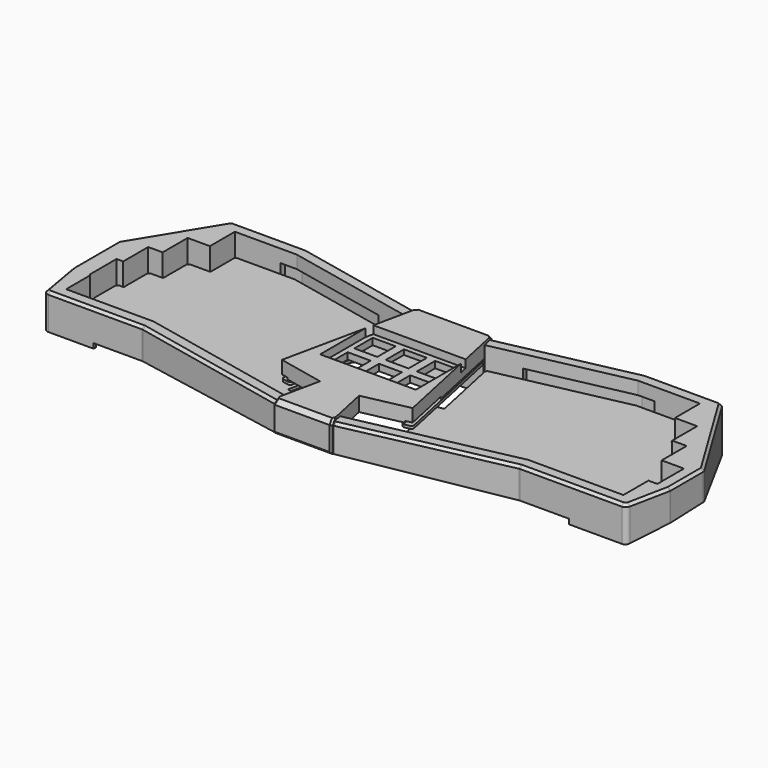
from build123d import *

# Parameters (mm, degrees)
PAD_DEPTH       = 1.6
FILLET_R        = 1.5
FILLET001_R     = 0.8
PAD001_DEPTH    = 40
POCKET_DEPTH    = 400
POCKET001_DEPTH = 50
POCKET001_TAPER = 70
POCKET002_DEPTH = 50
POCKET002_TAPER = 70
POCKET003_DEPTH = 3
POCKET005_DEPTH = 16.8
POCKET007_DEPTH = 22
POCKET012_DEPTH = 59
PAD006_DEPTH    = 3.5
PAD007_DEPTH    = 3.5
SKETCH026_W     = 15
SKETCH026_H     = 4
PAD008_DEPTH    = 3.5
SKETCH027_W     = 15
SKETCH027_H     = 4
PAD009_DEPTH    = 3.5
FILLET003_R     = 8
FILLET004_R     = 3
CHAMFER_SIZE    = 1.6
POCKET019_DEPTH = 200
SKETCH038_R     = 2
POCKET025_DEPTH = 6.7
PAD015_DEPTH    = 3.5
PAD016_DEPTH    = 3.5
POCKET035_DEPTH = 115
PAD010_DEPTH    = 1.6
FILLET002_R     = 1.5
FILLET006_R     = 7
PAD011_DEPTH    = 28.4
POCKET017_DEPTH = 50
POCKET018_DEPTH = 19.6
POCKET020_DEPTH = 26
POCKET021_DEPTH = 16
POCKET022_DEPTH = 19
POCKET023_DEPTH = 25
POCKET024_DEPTH = 1
CHAMFER001_SIZE = 2.6
CHAMFER002_SIZE = 1.2
SKETCH045_R     = 4.5
SKETCH045_R_2   = 2
PAD013_DEPTH    = 5.6
SKETCH046_R     = 2
POCKET030_DEPTH = 6.7
SKETCH047_R     = 2
POCKET031_DEPTH = 5.7
POCKET032_DEPTH = 13
CHAMFER003_SIZE = 1
SKETCH054_R     = 3.6
SKETCH054_R_2   = 2
PAD014_DEPTH    = 1
SKETCH055_W     = 19
SKETCH055_H     = 36
POCKET033_DEPTH = 1
PAD017_DEPTH    = 8
PAD018_DEPTH    = 8
FILLET005_R     = 1
SKETCH074_W     = 14
SKETCH074_H     = 14
POCKET036_DEPTH = 36
SKETCH073_W     = 58.35
SKETCH073_H     = 39.3
POCKET037_DEPTH = 14


with BuildPart() as pcb:
    # Sketch001 → Pad (new body)
    with BuildSketch(Plane.XY):
        with BuildLine():
            Line((-25.6569009013, 76.7143133761), (-104.1862885277, 93.40625))
            Line((-104.1862885277, 93.40625), (-140.3865264554, 93.40625))
            Line((-140.3865264554, 93.40625), (-140.3865264554, 74.35625))
            Line((-140.3865264554, 74.35625), (-153.9607289552, 74.35625))
            Line((-153.9607289552, 74.35625), (-153.9607289552, 55.30625))
            Line((-153.9607289552, 55.30625), (-162.772431455, 55.30625))
            Line((-162.772431455, 55.30625), (-162.772431455, 36.25625))
            Line((-162.772431455, 36.25625), (-166.8216339549, 36.25625))
            Line((-166.8216339549, 36.25625), (-166.8216339549, 18.7896622428))
            Line((-166.8216339549, 18.7896622428), (-166.1083364547, 18.0000001221))
            Line((-166.1083364547, 18.0000001221), (-166.1083364547, -0.25625))
            Line((-166.1083364547, -0.25625), (-114.0306139632, -0.25625))
            Line((-114.0306139632, -0.25625), (-33.0319665059, -17.4730440034))
            ThreePointArc((-33.0319665059, -17.4730440034), (0, -21.0075427473), (33.0319665059, -17.4730440034))
            Line((114.0306139632, -0.25625), (33.0319665059, -17.4730440034))
            Line((114.0306139632, -0.25625), (170.8708364547, -0.25625))
            Line((170.8708364547, -0.25625), (170.8708364547, 18.79375))
            Line((170.8708364547, 18.79375), (176.3466339549, 18.79375))
            Line((176.3466339549, 18.79375), (176.3466339549, 36.25625))
            Line((176.3466339549, 36.25625), (162.772431455, 36.25625))
            Line((162.772431455, 36.25625), (162.772431455, 55.30625))
            Line((162.772431455, 55.30625), (153.9607289552, 55.30625))
            Line((153.9607289552, 55.30625), (153.9607289552, 74.35625))
            Line((153.9607289552, 74.35625), (140.3865264554, 74.35625))
            Line((140.3865264554, 74.35625), (140.3865264554, 93.40625))
            Line((140.3865264554, 93.40625), (104.1862885277, 93.40625))
            Line((104.1862885277, 93.40625), (25.6569009013, 76.7143133761))
            Line((34.7896818101, 33.7479573294), (25.6569009013, 76.7143133761))
            Line((29.5137981886, 32.626533647), (34.7896818101, 33.7479573294))
            Line((35.8509465247, 2.8125947766), (29.5137981886, 32.626533647))
            ThreePointArc((-35.8509465247, 2.8125947766), (0, -2.07), (35.8509465247, 2.8125947766))
            Line((-35.8509465247, 2.8125947766), (-29.5137981886, 32.626533647))
            Line((-29.5137981886, 32.626533647), (-34.7896818101, 33.7479573294))
            Line((-34.7896818101, 33.7479573294), (-25.6569009013, 76.7143133761))
        make_face()
    extrude(amount=PAD_DEPTH)

    # Fillet
    fillet_edges = [pcb.edges().sort_by_distance(p)[0] for p in [
        (-166.108336, -0.25625, 0.8),
        (-166.821634, 36.25625, 0.8),
        (-162.772431, 55.30625, 0.8),
        (-153.960729, 74.35625, 0.8),
        (-140.386526, 93.40625, 0.8),
        (-25.656901, 76.714313, 0.8),
        (25.656901, 76.714313, 0.8),
        (140.386526, 93.40625, 0.8),
        (153.960729, 74.35625, 0.8),
        (162.772431, 55.30625, 0.8),
        (176.346634, 36.25625, 0.8),
        (176.346634, 18.79375, 0.8),
        (170.870836, -0.25625, 0.8),
        (-114.030614, -0.25625, 0.8),
        (114.030614, -0.25625, 0.8),
        (-104.186289, 93.40625, 0.8),
        (104.186289, 93.40625, 0.8),
    ]]
    fillet(fillet_edges, radius=FILLET_R)

    # Fillet001
    fillet001_edges = [pcb.edges().sort_by_distance(p)[0] for p in [
        (-34.789682, 33.747957, 0.8),
        (-29.513798, 32.626534, 0.8),
        (-35.850947, 2.812595, 0.8),
        (-140.386526, 74.35625, 0.8),
        (-153.960729, 55.30625, 0.8),
        (-162.772431, 36.25625, 0.8),
        (-166.108336, 18, 0.8),
        (-166.821634, 18.789662, 0.8),
        (35.850947, 2.812595, 0.8),
        (29.513798, 32.626534, 0.8),
        (34.789682, 33.747957, 0.8),
        (140.386526, 74.35625, 0.8),
        (153.960729, 55.30625, 0.8),
        (162.772431, 36.25625, 0.8),
        (170.870836, 18.79375, 0.8),
    ]]
    fillet(fillet001_edges, radius=FILLET001_R)


with BuildPart() as pcb_1:
    # Body001 placement: moved
    add(pcb.part.moved(Location((0, 0, 5.4))))


with BuildPart() as body002:
    # Sketch002 → Pad001 (new body)
    with BuildSketch(Plane.XY.offset(-20.2)):
        Polygon((-149.4960240693, 102.2), (-179.6153839549, 52.8352871714), (-179.6153839549, 18), (-174.9020864547, -9.05), (-114.9548743321, -9.05), (-18.2317807246, -29.6091282113), (18.2317807246, -29.6091282113), (114.9548743321, -9.05), (179.6645864547, -9.05), (185.1403839549, 18), (185.1403839549, 43.7799805707), (149.4960240693, 102.2), (103.2620281588, 102.2), (23.0521728121, 85.1508689355), (-23.0521728121, 85.1508689355), (-103.2620281588, 102.2), align=None)
    extrude(amount=PAD001_DEPTH)

    # Sketch004 → Pocket (cut)
    with BuildSketch(Plane.YZ.offset(200)):
        Polygon((-29.6091282113, 0), (427.5929638991, -40), (-34.6091282113, -40), (-34.6091282113, 0), align=None)
    extrude(amount=-POCKET_DEPTH, mode=Mode.SUBTRACT)

    # Sketch005 (on Face2 of Pocket) → Pocket001 (cut)
    with BuildSketch(Plane(origin=(0, -0.2249145944, -2.5707855781), x_dir=(1, 0, 0), z_dir=(0, -0.0871557427, -0.9961946981))):
        Polygon((179.664586, 8.858796), (139.4960240693, -102.8161611286), (-829.867004, -717.988555), (0, -4000), (8000, 0), (0, 4000), (-701.29071, 993.332806), align=None)
    extrude(amount=-POCKET001_DEPTH, taper=POCKET001_TAPER, mode=Mode.SUBTRACT)

    # Sketch006 (on Face2 of Pocket001) → Pocket002 (cut)
    with BuildSketch(Plane(origin=(0, -0.2249145944, -2.5707855781), x_dir=(1, 0, 0), z_dir=(0, -0.0871557427, -0.9961946981))):
        Polygon((-174.9020864547, 8.8587957981), (-139.4960240693, -102.8161611286), (0, -4000), (-8000, 0), (0, 4000), align=None)
    extrude(amount=-POCKET002_DEPTH, taper=POCKET002_TAPER, mode=Mode.SUBTRACT)

    # Sketch007 (on Face19 of Pocket002) → Pocket003 (cut)
    with BuildSketch(Plane(origin=(0, -0.2249145944, -2.5707855781), x_dir=(1, 0, 0), z_dir=(0, -0.0871557427, -0.9961946981))):
        Polygon((-172.1698836043, 6.8587957981), (-144.9548743321, 6.8587957981), (-144.9548743321, 8.8587957981), (-144.9548743321, 29.4964565392), (-88.6830095072, 29.4964565392), (0, 55.200555), (88.6830096055, 29.496457), (144.9548743321, 29.496457), (144.9548743321, 8.8587957981), (144.9548743321, 6.8587957981), (176.8197582998, 6.8587957981), (138.0899634837, -100.8161611286), (103.4730219471, -100.8161611286), (72.3688065106, -94.1795015486), (71.9514637892, -96.1354731877), (70.5260154697, -102.8161611286), (-70.5260154697, -102.8161611286), (-71.9514637892, -96.1354731877), (-72.3688065106, -94.1795015486), (-103.4730219471, -100.8161611286), (-138.0320039292, -100.8161611286), align=None)
    extrude(amount=-POCKET003_DEPTH, mode=Mode.SUBTRACT)

    # Sketch003 → Pocket005 (cut)
    with BuildSketch(Plane.XY.offset(19.8)):
        Polygon((-141.7802764554, 94.8), (-141.7802764554, 75.75), (-155.3544789552, 75.75), (-155.3544789552, 56.7), (-164.166181455, 56.7), (-164.166181455, 37.65), (-168.2153839549, 37.65), (-168.2153839549, 17.4), (-167.5020864547, 16.6867024998), (-167.5020864547, -1.65), (-152.5020864547, -1.65), (-126.7802764554, 94.8), align=None)
        Polygon((157.2645864547, -1.65), (172.2645864547, -1.65), (172.2645864547, 17.4), (177.7403839549, 17.4), (177.7403839549, 37.65), (164.166181455, 37.65), (164.166181455, 56.7), (155.3544789552, 56.7), (155.3544789552, 75.75), (141.7802764554, 75.75), (141.7802764554, 94.8), (126.7802764554, 94.8), align=None)
    extrude(amount=-POCKET005_DEPTH, mode=Mode.SUBTRACT)

    # Sketch012 → Pocket007 (cut)
    with BuildSketch(Plane.XY.offset(-10)):
        Polygon((-44.2784183533, 81.4839219459), (-43.4259804209, 85.4943271089), (-103.6719346763, 98.3), (-114.0802764554, 98.3), (-114.0802764554, 94.2), (-149.2770864547, -1.05), (-149.2770864547, -5.15), (-114.5449678146, -5.15), (-42.8527627495, -20.3886486072), (-42.0003248171, -16.3782434442), (-111.178681455, 37.05), align=None)
        Polygon((44.2784183533, 81.4839219459), (43.4259804209, 85.4943271089), (103.6719346763, 98.3), (114.0802764554, 98.3), (114.0802764554, 94.2), (149.2770864547, -1.05), (149.2770864547, -5.15), (114.5449678146, -5.15), (42.8527627495, -20.3886486072), (42.0003248171, -16.3782434442), (111.178681455, 37.05), align=None)
    extrude(amount=POCKET007_DEPTH, mode=Mode.SUBTRACT)

    # Sketch017 → Pocket012 (cut)
    with BuildSketch(Plane.XY.offset(40)):
        Polygon((-164.7812608877, -1.65), (-114.1771029911, -1.65), (-16.6932414892, -22.3708344192), (16.6932414892, -22.3708344192), (114.1771029911, -1.65), (169.1251097712, -1.65), (134.3003201796, 94.8), (104.0397994998, 94.8), (24.5907120235, 77.9125751382), (-24.5907120235, 77.9125751382), (-104.0397994998, 94.8), (-134.0853982624, 94.8), align=None)
    extrude(amount=-POCKET012_DEPTH, mode=Mode.SUBTRACT)

    # Sketch024 (on Face92 of Pocket012) → Pad006 (join)
    with BuildSketch(Plane(origin=(-5.9988132418, -28.2221973985, 0), x_dir=(-0.9781476007, 0.2079116908, 0), z_dir=(0.2079116908, 0.9781476007, 0))):
        Polygon((47.675634708, 2.0229030007), (47.675634708, 6.0229030006), (62.6731537758, 5.7500993892), (62.6731537758, 1.7500993892), align=None)
    extrude(amount=PAD006_DEPTH)

    # Sketch025 (on Face94 of Pad006) → Pad007 (join)
    with BuildSketch(Plane(origin=(5.9988132418, -28.2221973985, 0), x_dir=(-0.9781476007, -0.2079116908, 0), z_dir=(-0.2079116908, 0.9781476007, 0))):
        Polygon((-47.675634708, 2.0229030007), (-47.675634708, 6.0229030007), (-62.6731537758, 5.7500993892), (-62.6731537758, 1.7500993892), align=None)
    extrude(amount=PAD007_DEPTH)

    # Sketch026 (on Face91 of Pad007) → Pad008 (join)
    with BuildSketch(Plane(origin=(0, -5.15, 0), x_dir=(-1, 0, 0), z_dir=(0, 1, 0))):
        with Locations((131.7770864547, 2.8715630744)):
            Rectangle(SKETCH026_W, SKETCH026_H)
    extrude(amount=PAD008_DEPTH)

    # Sketch027 (on Face97 of Pad008) → Pad009 (join)
    with BuildSketch(Plane(origin=(0, -5.15, 0), x_dir=(-1, 0, 0), z_dir=(0, 1, 0))):
        with Locations((-131.7770864547, 2.8715630744)):
            Rectangle(SKETCH027_W, SKETCH027_H)
    extrude(amount=PAD009_DEPTH)

    # Fillet003
    fillet003_edges = [body002.edges().sort_by_distance(p)[0] for p in [
        (134.30032, 94.8, -2.436464),
        (138.089963, 100.338344, -9.863201),
        (-134.085398, 94.8, -2.436464),
        (-138.032004, 100.338344, -9.863201),
        (169.12511, -1.65, 1.782676),
        (176.819758, -6.926877, -0.47871),
        (-164.781261, -1.65, 1.782676),
        (-172.169884, -6.926877, -0.47871),
    ]]
    fillet(fillet003_edges, radius=FILLET003_R)

    # Fillet004
    fillet004_edges = [body002.edges().sort_by_distance(p)[0] for p in [
        (-174.902086, -9.05, 9.000655),
        (-179.615384, 18, 10.115146),
        (-179.615384, 52.835287, 10.503488),
        (-149.496024, 102.2, 5.858877),
        (-114.954874, -9.05, 10.506384),
        (-18.231781, -29.609128, 11.40573),
        (18.231781, -29.609128, 11.40573),
        (114.954874, -9.05, 10.506384),
        (179.664586, -9.05, 9.000655),
        (185.140384, 18, 10.409616),
        (185.140384, 43.779981, 10.864903),
        (149.496024, 102.2, 5.834753),
        (103.262028, 102.2, 4.134098),
        (23.052173, 85.150869, 6.38563),
        (-23.052173, 85.150869, 6.38563),
        (-103.262028, 102.2, 4.134098),
    ]]
    fillet(fillet004_edges, radius=FILLET004_R)

    # Chamfer
    chamfer_edges = [body002.edges().sort_by_distance(p)[0] for p in [
        (-177.452971, 5.589733, 19.8),
    ]]
    chamfer(chamfer_edges, length=CHAMFER_SIZE)

    # Sketch032 → Pocket019 (cut)
    with BuildSketch(Plane.XY):
        Polygon((-10, -38.338413), (10, -38.338413), (10, -15.045521), (10, 62.395123), (10, 94.439026), (-10, 94.439026), (-10, 62.395123), (-10, -15.045521), align=None)
    extrude(amount=POCKET019_DEPTH, mode=Mode.SUBTRACT)

    # Sketch038 (on Face53 of Pocket019) → Pocket025 (cut)
    with BuildSketch(Plane(origin=(0, 0.0365526338, 0.4177985162), x_dir=(1, 0, 0), z_dir=(0, -0.0871557427, -0.9961946981))):
        with Locations((-152.8770864547, 4.7929949909)):
            Circle(SKETCH038_R)
        with Locations((-117.6802764554, -98.7254283402)):
            Circle(SKETCH038_R)
        with Locations((117.6802764554, -98.7254283402)):
            Circle(SKETCH038_R)
        with Locations((152.8770864547, 4.7929949909)):
            Circle(SKETCH038_R)
        with Locations((31.1362598613, 23.092329532)):
            Circle(SKETCH038_R)
        with Locations((-31.1362598613, 23.092329532)):
            Circle(SKETCH038_R)
        with Locations((-31.6633816813, -83.3636160948)):
            Circle(SKETCH038_R)
        with Locations((31.6633816813, -83.3636160948)):
            Circle(SKETCH038_R)
    extrude(amount=-POCKET025_DEPTH, mode=Mode.SUBTRACT)

    # Sketch057 (on Face148 of Pocket025) → Pad015 (join)
    with BuildSketch(Plane(origin=(15.5096511733, 72.9671718974, 0), x_dir=(0.9781476007, -0.2079116908, 0), z_dir=(-0.2079116908, -0.9781476007, 0))):
        Polygon((-85.2481537758, -7.1133944772), (-70.250634708, -6.8405908657), (-70.250634708, -2.8405908657), (-85.2481537758, -3.1133944772), align=None)
    extrude(amount=PAD015_DEPTH)

    # Sketch058 (on Face151 of Pad015) → Pad016 (join)
    with BuildSketch(Plane(origin=(-15.5096511733, 72.9671718974, 0), x_dir=(0.9781476007, 0.2079116908, 0), z_dir=(0.2079116908, -0.9781476007, 0))):
        Polygon((70.250634708, -6.8406570349), (85.2481537758, -7.1134606463), (85.2481537758, -3.1134606463), (70.250634708, -2.8406570349), align=None)
    extrude(amount=PAD016_DEPTH)

    # Sketch061 (on Face13 of Pad016) → Pocket035 (cut, symmetric)
    with BuildSketch(Plane.XZ.offset(-77.9125751382)):
        Polygon((-10, 14.8), (-15, 9.8), (-10, 4.8), align=None)
        Polygon((10, 14.8), (15, 9.8), (10, 4.8), align=None)
    extrude(amount=POCKET035_DEPTH, both=True, mode=Mode.SUBTRACT)


with BuildPart() as pcb_core:
    # Sketch028 → Pad010 (new body)
    with BuildSketch(Plane.XY):
        Polygon((-24.2903297212, 76.8006881296), (24.2903297212, 76.8006881296), (39.9356560508, 3.1952148064), (34.0667704464, 1.9477446615), (25.5957658113, 41.8006881296), (-25.5957658123, 41.8006881296), (-34.0667704465, 1.9477446615), (-39.9356560509, 3.1952148064), align=None)
    extrude(amount=PAD010_DEPTH)

    # Fillet002
    fillet002_edges = [pcb_core.edges().sort_by_distance(p)[0] for p in [
        (-39.935656, 3.195215, 0.8),
        (-24.29033, 76.800688, 0.8),
        (24.29033, 76.800688, 0.8),
        (39.935656, 3.195215, 0.8),
        (-34.06677, 1.947745, 0.8),
        (34.06677, 1.947745, 0.8),
    ]]
    fillet(fillet002_edges, radius=FILLET002_R)

    # Fillet006
    fillet006_edges = [pcb_core.edges().sort_by_distance(p)[0] for p in [
        (-25.595766, 41.800688, 0.8),
        (25.595766, 41.800688, 0.8),
    ]]
    fillet(fillet006_edges, radius=FILLET006_R)


with BuildPart() as pcb_core_1:
    # Body007 placement: moved
    add(pcb_core.part.moved(Location((0, 0, 10))))


with BuildPart() as case_core:
    # Sketch029 → Pad011 (new body)
    with BuildSketch(Plane.XY):
        Polygon((-17.9584668663, -31.2091282113), (-11.8943740038, -2.6798143436), (-39.844852054, 3.2612431678), (-22.0854419765, 86.7508689355), (22.0986779565, 86.7508689355), (39.846701604, 3.2529824996), (11.896133913, -2.6880940655), (17.9584668663, -31.2091282113), align=None)
    extrude(amount=PAD011_DEPTH)

    # Sketch030 → Pocket017 (cut, symmetric)
    with BuildSketch(Plane.YZ):
        Polygon((-31.2091282114, 0), (-31.2091282114, 10.1399818616), (84.6913948162, 0), align=None)
    extrude(amount=POCKET017_DEPTH, both=True, mode=Mode.SUBTRACT)

    # Sketch031 → Pocket018 (cut)
    with BuildSketch(Plane.XY):
        with BuildLine():
            Line((171.6645864547, -20.7708337586), (171.6645864547, 76.7508689355))
            Line((171.6645864547, 76.7508689355), (-166.9020864547, 76.7508689355))
            Line((-166.9020864547, 76.7508689355), (-166.9020864547, -20.7708337586))
            Line((-166.9020864547, -20.7708337586), (-14.6128973912, -20.7708337586))
            ThreePointArc((-14.6128973912, -20.7708337586), (0, -21.3708337586), (14.6128973912, -20.7708337586))
            Line((171.6645864547, -20.7708337586), (14.6128973912, -20.7708337586))
        make_face()
    extrude(amount=POCKET018_DEPTH, mode=Mode.SUBTRACT)

    # Sketch033 → Pocket020 (cut)
    with BuildSketch(Plane.YZ.offset(-9.6)):
        Polygon((-29.6091282114, -7.025155), (-29.6091282114, 25.2), (-28.0091282114, 26.8), (-22.3708337586, 26.8), (-22.3708337586, -7.025155), align=None)
    extrude(amount=-POCKET020_DEPTH, mode=Mode.SUBTRACT)

    # Sketch034 → Pocket021 (cut)
    with BuildSketch(Plane.YZ.offset(-9.6)):
        Polygon((85.1508689355, -10.772844), (85.1508689355, 25.2), (83.5508689355, 26.8), (77.9108689355, 26.8), (77.9108689355, -10.772844), align=None)
    extrude(amount=-POCKET021_DEPTH, mode=Mode.SUBTRACT)

    # Sketch035 → Pocket022 (cut)
    with BuildSketch(Plane.YZ.offset(9.6)):
        Polygon((-29.6091282114, -7.025155), (-29.6091282114, 25.2), (-28.0091282114, 26.8), (-22.3708337586, 26.8), (-22.3708337586, -7.025155), align=None)
    extrude(amount=POCKET022_DEPTH, mode=Mode.SUBTRACT)

    # Sketch036 → Pocket023 (cut)
    with BuildSketch(Plane.YZ.offset(9.6)):
        Polygon((85.1508689355, -10.772844), (85.1508689355, 25.2), (83.5508689355, 26.8), (77.9108689355, 26.8), (77.9108689355, -10.772844), align=None)
    extrude(amount=POCKET023_DEPTH, mode=Mode.SUBTRACT)

    # Sketch037 (on Face2 of Pocket023) → Pocket024 (cut)
    with BuildSketch(Plane(origin=(0, 0, 19.6), x_dir=(1, 0, 0), z_dir=(0, 0, -1))):
        Polygon((-39.844852054, -3.2612431678), (-35.9322616511, -2.4295964045), (-29.6904916408, -31.7730847305), (-33.6030820438, -32.6047314938), align=None)
        Polygon((35.934111201, -2.4213357363), (29.6967604765, -31.7657637584), (33.6093508794, -32.5974105216), (39.846701604, -3.2529824996), align=None)
    extrude(amount=-POCKET024_DEPTH, mode=Mode.SUBTRACT)

    # Chamfer001
    chamfer001_edges = [case_core.edges().sort_by_distance(p)[0] for p in [
        (0, -31.209128, 28.4),
        (0.006618, 86.750869, 28.4),
    ]]
    chamfer(chamfer001_edges, length=CHAMFER001_SIZE)

    # Chamfer002
    chamfer002_edges = [case_core.edges().sort_by_distance(p)[0] for p in [
        (0, -31.209128, 10.139982),
        (0.006618, 86.750869, 0),
        (17.958467, -31.209128, 17.969991),
        (-17.958467, -31.209128, 17.969991),
        (-17.682143, -29.909128, 27.1),
        (17.682143, -29.909128, 27.1),
        (22.098678, 86.750869, 12.9),
        (22.375001, 85.450869, 27.1),
        (-22.36197, 85.450869, 27.1),
        (-22.085442, 86.750869, 12.9),
    ]]
    chamfer(chamfer002_edges, length=CHAMFER002_SIZE)

    # Sketch045 → Pad013 (join)
    with BuildSketch(Plane.XY.offset(19.6)):
        with Locations((0, -10.4867326534)):
            Circle(SKETCH045_R)
        with Locations((0, -10.4867326534)):
            Circle(SKETCH045_R_2, mode=Mode.SUBTRACT)
    extrude(amount=-PAD013_DEPTH)

    # Sketch046 (on Face55 of Pad013) → Pocket030 (cut)
    with BuildSketch(Plane(origin=(0, 0, 14), x_dir=(1, 0, 0), z_dir=(0, 0, -1))):
        with Locations((0, 10.4867326534)):
            Circle(SKETCH046_R)
    extrude(amount=-POCKET030_DEPTH, mode=Mode.SUBTRACT)

    # Sketch047 → Pocket031 (cut)
    with BuildSketch(Plane.XY.offset(18.6)):
        with Locations((-20.778249147, 72.3256881296)):
            Circle(SKETCH047_R)
        with Locations((20.778249147, 72.3256881296)):
            Circle(SKETCH047_R)
    extrude(amount=POCKET031_DEPTH, mode=Mode.SUBTRACT)

    # Sketch048 (on Face30 of Pocket031) → Pocket032 (cut)
    with BuildSketch(Plane.XZ.offset(-76.7508689355)):
        with BuildLine():
            ThreePointArc((-4, 13.5), (-7.5, 10), (-4, 6.5))
            Line((-4, 6.5), (4, 6.5))
            ThreePointArc((4, 6.5), (7.5, 10), (4, 13.5))
            Line((4, 13.5), (-4, 13.5))
        make_face()
    extrude(amount=-POCKET032_DEPTH, mode=Mode.SUBTRACT)

    # Chamfer003
    chamfer003_edges = [case_core.edges().sort_by_distance(p)[0] for p in [
        (0, 86.750869, 13.5),
        (0, 86.750869, 6.5),
        (-7.5, 86.750869, 10),
        (7.5, 86.750869, 10),
        (-7.5, 76.750869, 10),
        (0, 76.750869, 13.5),
        (7.5, 76.750869, 10),
        (0, 76.750869, 6.5),
    ]]
    chamfer(chamfer003_edges, length=CHAMFER003_SIZE)

    # Sketch054 → Pad014 (join)
    with BuildSketch(Plane.XY.offset(19.6)):
        with Locations((-20.778249147, 72.3256881296)):
            Circle(SKETCH054_R)
        with Locations((-20.778249147, 72.3256881296)):
            Circle(SKETCH054_R_2, mode=Mode.SUBTRACT)
        with Locations((20.778249147, 72.3256881296)):
            Circle(SKETCH054_R)
        with Locations((20.778249147, 72.3256881296)):
            Circle(SKETCH054_R_2, mode=Mode.SUBTRACT)
    extrude(amount=-PAD014_DEPTH)

    # Sketch055 (on Face7 of Pad014) → Pocket033 (cut)
    with BuildSketch(Plane(origin=(0, 0, 19.6), x_dir=(1, 0, 0), z_dir=(0, 0, -1))):
        with Locations((0, -58.7508689355)):
            Rectangle(SKETCH055_W, SKETCH055_H)
    extrude(amount=-POCKET033_DEPTH, mode=Mode.SUBTRACT)

    # Sketch060 (on Face23 of Pocket033) → Pad017 (join)
    with BuildSketch(Plane.XZ.offset(-85.1508689355)):
        Polygon((9.6, 11.8), (14.6, 16.8), (9.6, 21.8), align=None)
        Polygon((-9.6, 21.8), (-14.6, 16.8), (-9.6, 11.8), align=None)
    extrude(amount=PAD017_DEPTH)

    # Sketch062 (on Face68 of Pad017) → Pad018 (join)
    with BuildSketch(Plane.XZ.offset(22.3708337586)):
        Polygon((9.6, 11.8), (14.6, 16.8), (9.6, 21.8), align=None)
        Polygon((-9.6, 21.8), (-14.6, 16.8), (-9.6, 11.8), align=None)
    extrude(amount=PAD018_DEPTH)

    # Fillet005
    fillet005_edges = [case_core.edges().sort_by_distance(p)[0] for p in [
        (-14.6, -25.989981, 16.8),
        (14.6, -25.989981, 16.8),
        (14.6, 81.530869, 16.8),
        (-14.6, 81.530869, 16.8),
    ]]
    fillet(fillet005_edges, radius=FILLET005_R)

    # Sketch074 → Pocket036 (cut)
    with BuildSketch(Plane.XY):
        with Locations((-19.05, 48.1797330851)):
            Rectangle(SKETCH074_W, SKETCH074_H)
        with Locations((0, 48.1797330851)):
            Rectangle(SKETCH074_W, SKETCH074_H)
        with Locations((19.05, 48.1797330851)):
            Rectangle(SKETCH074_W, SKETCH074_H)
        with Locations((-19.05, 29.1297330851)):
            Rectangle(SKETCH074_W, SKETCH074_H)
        with Locations((0, 29.1297330851)):
            Rectangle(SKETCH074_W, SKETCH074_H)
        with Locations((19.05, 29.1297330851)):
            Rectangle(SKETCH074_W, SKETCH074_H)
    extrude(amount=POCKET036_DEPTH, mode=Mode.SUBTRACT)

    # Sketch073 → Pocket037 (cut)
    with BuildSketch(Plane.XY.offset(23.6)):
        with Locations((0, 38.654733085)):
            Rectangle(SKETCH073_W, SKETCH073_H)
    extrude(amount=POCKET037_DEPTH, mode=Mode.SUBTRACT)


with BuildPart() as case_core_1:
    # Body008 placement: moved
    add(case_core.part.moved(Location((0, 0, -7))))


solid = Compound([pcb_1.part, body002.part, pcb_core_1.part, case_core_1.part])
